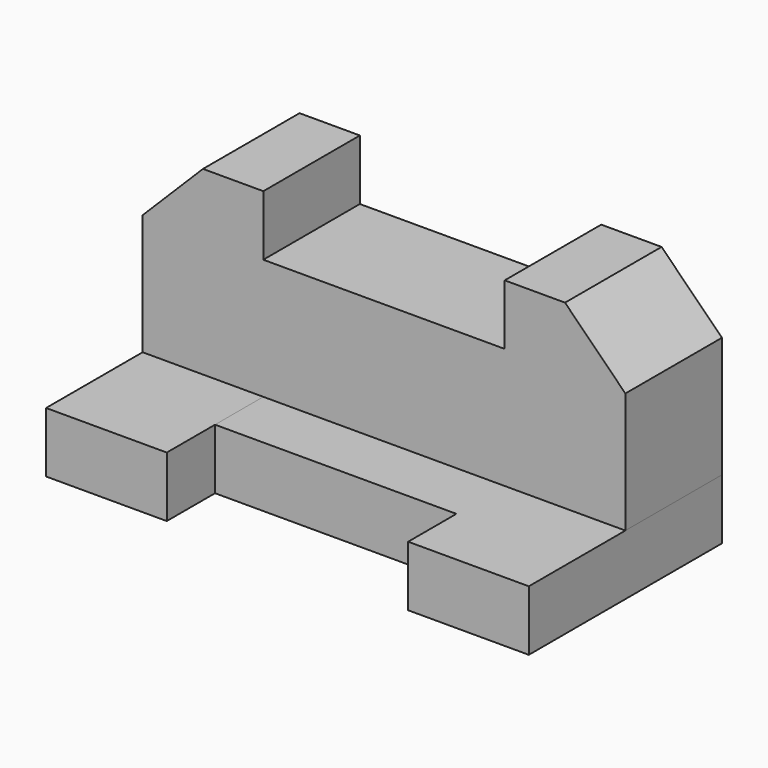
from build123d import *

# Parameters (mm, degrees)
F0_W     = 50.8
F0_H     = 25.4
F1_DEPTH = 101.6
F0_W_2   = 101.6
F2_DEPTH = 76.2
F3_DEPTH = 101.6
F0_W_3   = 25.4
F4_DEPTH = 50.8


with BuildPart() as f1:
    # F0 (on Front) → F1 (new body)
    with BuildSketch(Plane.XZ):
        with Locations((25.4, 12.7)):
            Rectangle(F0_W, F0_H)
    extrude(amount=F1_DEPTH)


with BuildPart() as f2:
    # F0 (on Front) → F2 (new body)
    with BuildSketch(Plane.XZ):
        with Locations((101.6, 12.7)):
            Rectangle(F0_W_2, F0_H)
    extrude(amount=F2_DEPTH)

    # F0 (on Front) → F3 (join)
    with BuildSketch(Plane.XZ):
        with Locations((177.8, 12.7)):
            Rectangle(F0_W, F0_H)
    extrude(amount=F3_DEPTH)


with BuildPart() as f4:
    # F0 (on Front) → F4 (new body)
    with BuildSketch(Plane.XZ):
        Polygon((0, 76.2), (0, 25.4), (50.8, 25.4), (152.4, 25.4), (203.2, 25.4), (203.2, 76.2), (177.8, 76.2), (152.4, 76.2), (50.8, 76.2), (25.4, 76.2), align=None)
        with Locations((38.1, 88.9)):
            Rectangle(F0_W_3, F0_H)
        Polygon((25.4, 101.6), (0, 76.2), (25.4, 76.2), align=None)
        with Locations((165.1, 88.9)):
            Rectangle(F0_W_3, F0_H)
        Polygon((177.8, 76.2), (203.2, 76.2), (177.8, 101.6), align=None)
    extrude(amount=F4_DEPTH)


solid = Compound([f1.part, f2.part, f4.part])
